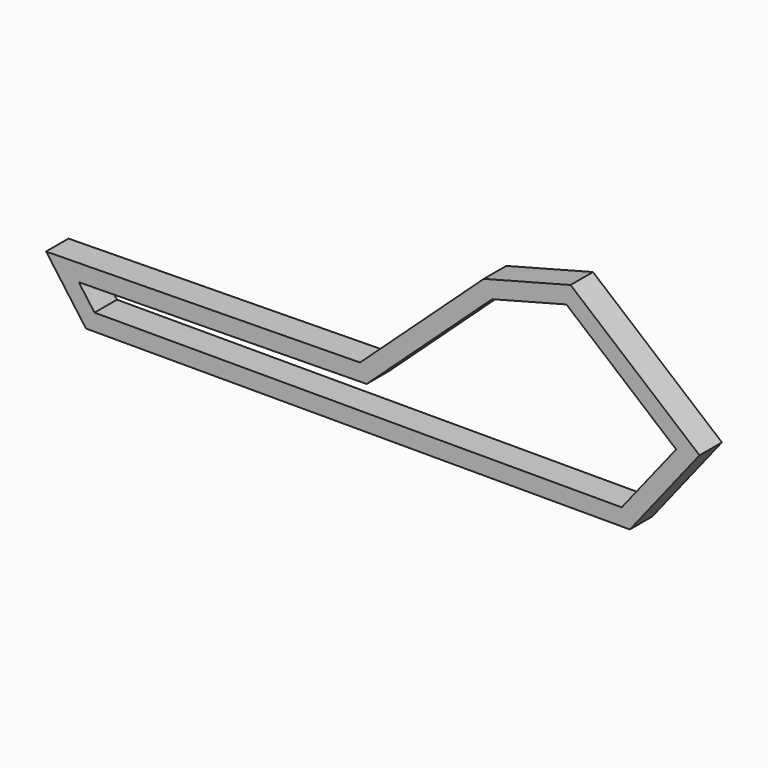
from build123d import *

# Parameters (mm, degrees)
F1_DEPTH = 25
F3_DEPTH = 25


with BuildPart() as f1:
    # F0 (on Front) → F1 (new body)
    with BuildSketch(Plane.XZ):
        Polygon((-250, 0), (0, 0), (235, 0), (297.092584, 78.386931), (182.124103, 174.731357), (104.753931, 154.387894), (-5.617875, 52.81002), (-285.590873, 48.921486), align=None)
    extrude(amount=F1_DEPTH)

    # F2 (on face) → F3 (cut)
    with BuildSketch(Plane.XZ.offset(25)):
        Polygon((178.435697, 158.251686), (112.170844, 140.82822), (0.322089, 37.891073), (-256.422345, 34.32516), (-242.363097, 15), (227.746096, 15), (276.273938, 76.262527), align=None)
    extrude(amount=-F3_DEPTH, mode=Mode.SUBTRACT)


solid = f1.part
